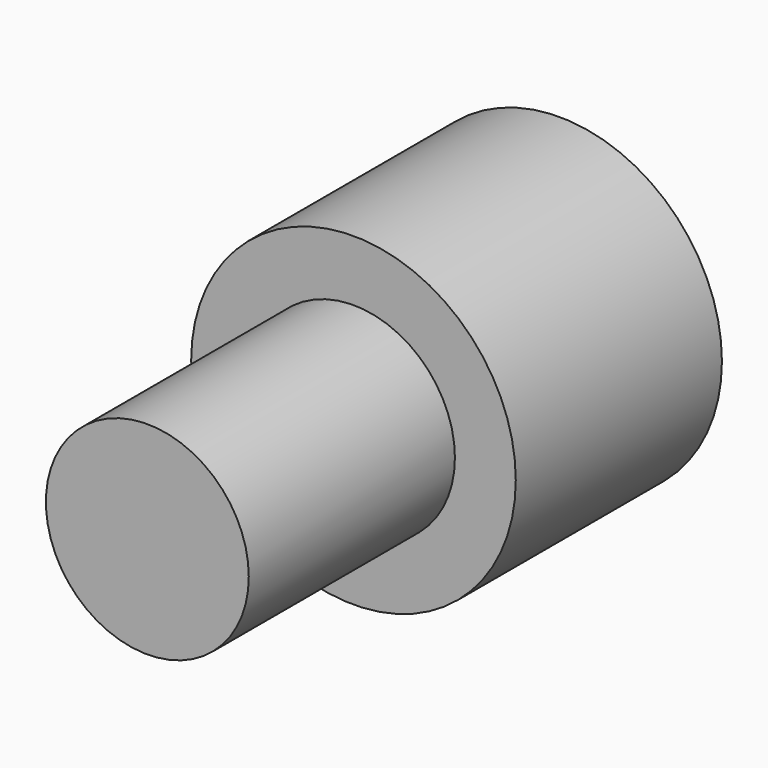
from build123d import *

# Parameters (mm, degrees)
F0_R     = 2.5
F1_DEPTH = 6.35
F0_R_2   = 4
F2_DEPTH = 6.35


with BuildPart() as f1:
    # F0 (on Front) → F1 (new body)
    with BuildSketch(Plane.XZ):
        Circle(F0_R)
    extrude(amount=F1_DEPTH)


with BuildPart() as f2:
    # F0 (on Front) → F2 (new body)
    with BuildSketch(Plane.XZ):
        Circle(F0_R_2)
        Circle(F0_R, mode=Mode.SUBTRACT)
        Circle(F0_R)
    extrude(amount=-F2_DEPTH)


solid = Compound([f1.part, f2.part])
